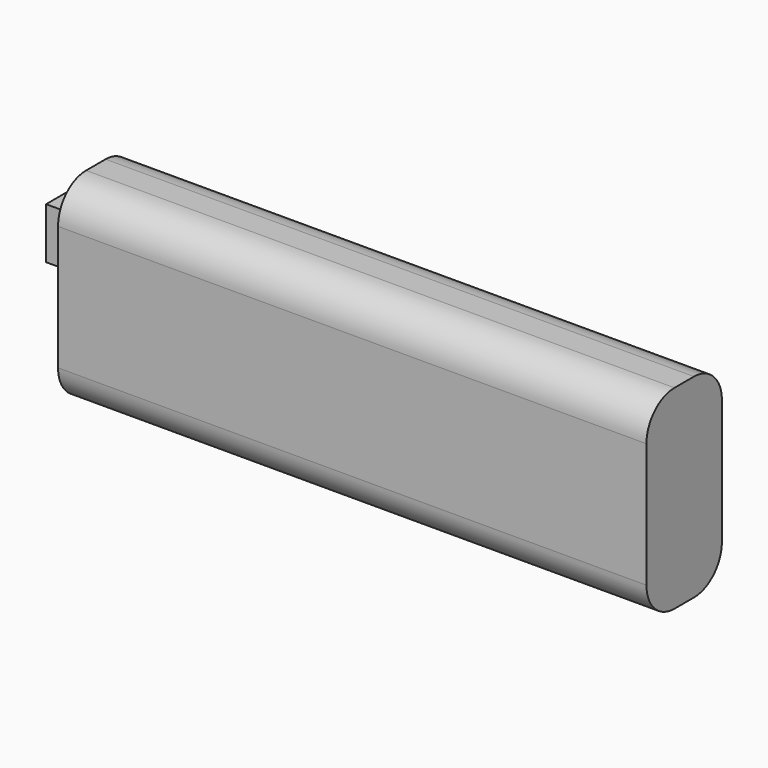
from build123d import *

# Parameters (mm, degrees)
F1_DEPTH = 51.562
F2_R     = 3.066051
F3_W     = 3.014619
F3_H     = 4.478862
F3_W_2   = 1.843878
F3_H_2   = 3.103115
F4_DEPTH = 3.3528


with BuildPart() as f1:
    # F0 (on Right) → F1 (new body)
    with BuildSketch(Plane.YZ):
        Polygon((0, 17.045056), (0, 0), (4.706469, 0), (8.268126, 0), (8.268126, 17.045056), (4.706469, 17.045056), align=None)
    extrude(amount=F1_DEPTH)

    # F2
    f2_edges = [f1.edges().sort_by_distance(p)[0] for p in [
        (25.781, 8.268126, 17.045056),
        (25.781, 0, 17.045056),
        (25.781, 8.268126, 0),
        (25.781, 0, 0),
    ]]
    fillet(f2_edges, radius=F2_R)

    # F3 (on Right) → F4 (join)
    with BuildSketch(Plane.YZ):
        with Locations((4.38504, 11.194011)):
            Rectangle(F3_W, F3_H)
        with Locations((4.424905, 11.364611)):
            Rectangle(F3_W_2, F3_H_2, mode=Mode.SUBTRACT)
    extrude(amount=-F4_DEPTH)


solid = f1.part
